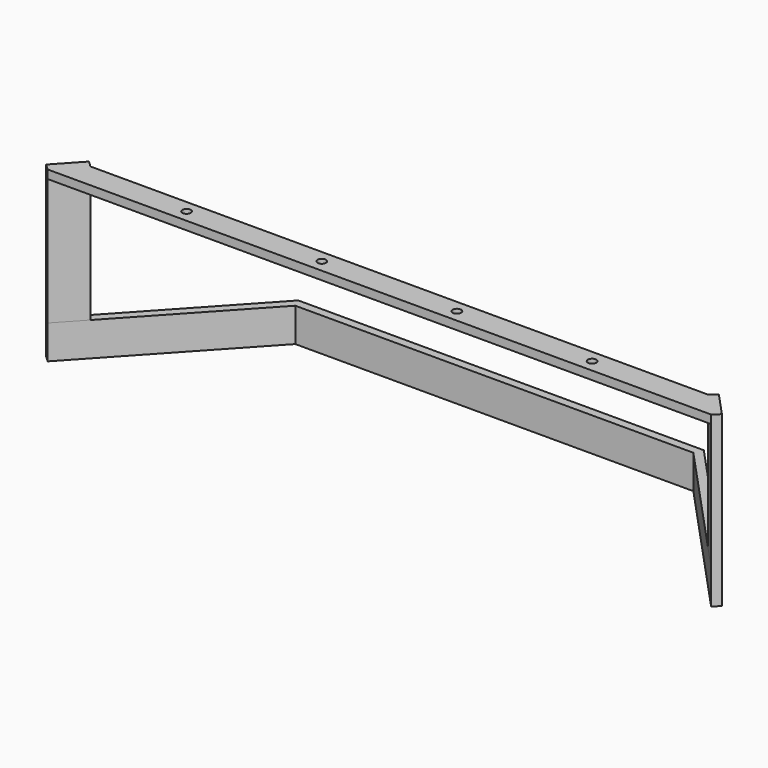
from build123d import *

# Parameters (mm, degrees)
F1_DEPTH = 20
F3_DEPTH = 80
F4_R     = 2.5
F5_DEPTH = 5


with BuildPart() as f1:
    # F0 (on Top) → F1 (new body)
    with BuildSketch(Plane.XY):
        Polygon((-120, 90), (-200, 3.392654), (-196.32714, 0), (-117.81186, 85), (117.81186, 85), (196.32714, 0), (200, 3.392654), (120, 90), align=None)
    extrude(amount=F1_DEPTH)

    # F2 (on face) → F3 (join)
    with BuildSketch(Plane.XY.offset(20)):
        Polygon((-186.429383, 18.084093), (-200, 3.392654), (-196.32714, 0), (-182.756524, 14.691439), align=None)
        Polygon((200, 3.392654), (186.429383, 18.084093), (182.756524, 14.691439), (196.32714, 0), align=None)
    extrude(amount=F3_DEPTH)

    # F4 (on face) → F5 (join)
    with BuildSketch(Plane.XY.offset(100)):
        Polygon((196.32714, 0), (182.756524, 14.691439), (-182.756524, 14.691439), (-196.32714, 0), align=None)
        with Locations((-120, 7.345719)):
            Circle(F4_R, mode=Mode.SUBTRACT)
        with Locations((-40, 7.345719)):
            Circle(F4_R, mode=Mode.SUBTRACT)
        with Locations((40, 7.345719)):
            Circle(F4_R, mode=Mode.SUBTRACT)
        with Locations((120, 7.345719)):
            Circle(F4_R, mode=Mode.SUBTRACT)
    extrude(amount=-F5_DEPTH)


solid = f1.part
